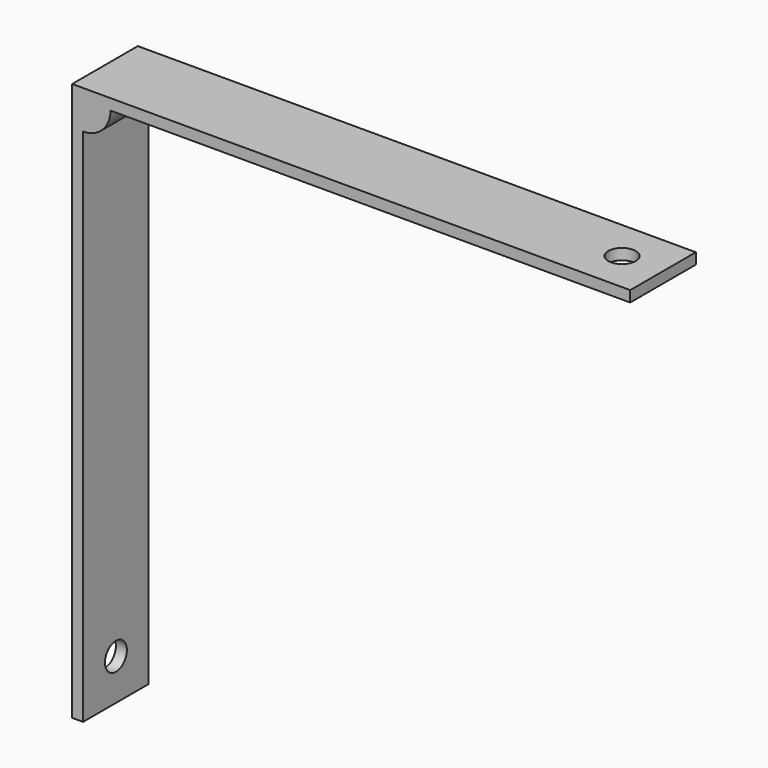
from build123d import *

# Parameters (mm, degrees)
PAD_DEPTH            = 7.5
CYLINDER_R           = 2.5
CYLINDER_DEPTH       = 3
CYLINDER001_R        = 2.5
CYLINDER001_DEPTH    = 3
FILLET_R             = 4.95
BODY_PLACEMENT_ANGLE = 270


with BuildPart() as part:
    # Sketch → Pad (new body, symmetric)
    with BuildSketch(Plane.XY):
        Polygon((102, 0), (102, 2), (7, 2), (7, 7), (2, 7), (2, 102), (0, 102), (0, 0), align=None)
    extrude(amount=PAD_DEPTH, both=True)

    # Cylinder → Cylinder (cut)
    with BuildSketch(Plane(origin=(94.5, 3, 0), x_dir=(1, 0, 0), z_dir=(0, -1, 0))):
        Circle(CYLINDER_R)
    extrude(amount=CYLINDER_DEPTH, mode=Mode.SUBTRACT)

    # Cylinder001 → Cylinder001 (cut)
    with BuildSketch(Plane(origin=(0, 94.5, 0), x_dir=(0, 1, 0), z_dir=(1, 0, 0))):
        Circle(CYLINDER001_R)
    extrude(amount=CYLINDER001_DEPTH, mode=Mode.SUBTRACT)

    # Fillet
    fillet_edges = [part.edges().sort_by_distance(p)[0] for p in [
        (7, 7, 0),
    ]]
    fillet(fillet_edges, radius=FILLET_R)


with BuildPart() as part_1:
    # Body placement: moved
    add(part.part.rotate(Axis((0, 0, 0), (1, 0, 0)), BODY_PLACEMENT_ANGLE))


solid = part_1.part
